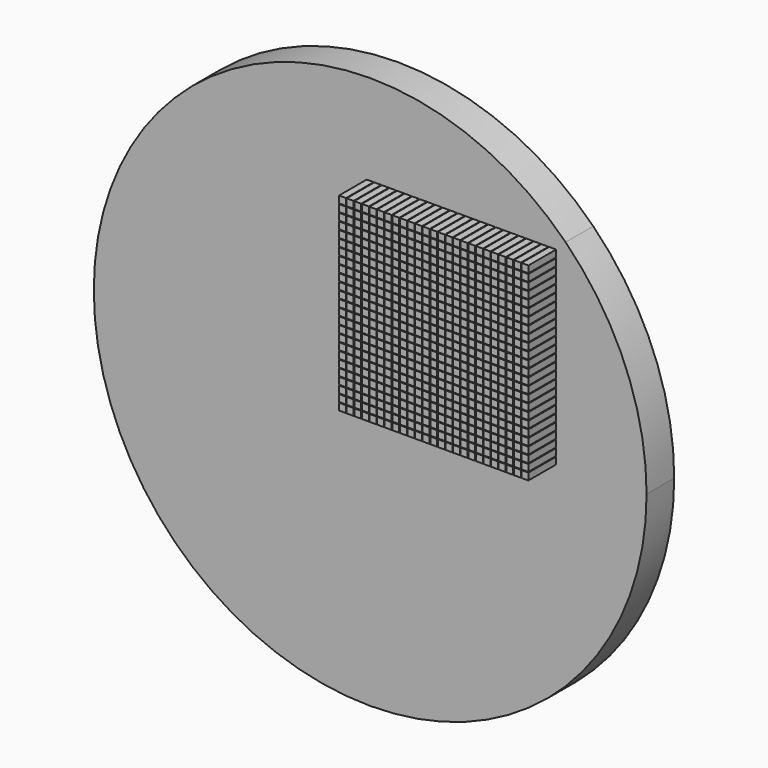
from build123d import *

# Parameters (mm, degrees)
F0_W     = 282.842712
F0_H     = 282.842712
F1_DEPTH = 25
F2_W     = 5
F2_H     = 5
F3_DEPTH = 25


with BuildPart() as f1:
    # F0 (on Front) → F1 (new body)
    with BuildSketch(Plane.XZ):
        with BuildLine():
            Line((-141.421356, 141.421356), (141.421356, 141.421356))
            ThreePointArc((141.421356, 141.421356), (0, 200), (-141.421356, 141.421356))
        make_face()
        with BuildLine():
            Line((-141.421356, -141.421356), (-141.421356, 141.421356))
            ThreePointArc((-141.421356, 141.421356), (-200, 0), (-141.421356, -141.421356))
        make_face()
        with BuildLine():
            ThreePointArc((141.421356, -141.421356), (184.775907, -76.536686), (200, 0))
            ThreePointArc((200, 0), (184.775907, 76.536686), (141.421356, 141.421356))
            Line((141.421356, 141.421356), (141.421356, -141.421356))
        make_face()
        with BuildLine():
            ThreePointArc((-141.421356, -141.421356), (0, -200), (141.421356, -141.421356))
            Line((141.421356, -141.421356), (-141.421356, -141.421356))
        make_face()
        Rectangle(F0_W, F0_H)
    extrude(amount=F1_DEPTH)

    # F2 (on face) → F3 (join)
    with BuildSketch(Plane.XZ.offset(25)):
        Rectangle(F2_W, F2_H)
        with Locations((0, 5.5)):
            Rectangle(F2_W, F2_H)
        with Locations((0, 11)):
            Rectangle(F2_W, F2_H)
        with Locations((0, 16.5)):
            Rectangle(F2_W, F2_H)
        with Locations((0, 22)):
            Rectangle(F2_W, F2_H)
        with Locations((0, 27.5)):
            Rectangle(F2_W, F2_H)
        with Locations((0, 33)):
            Rectangle(F2_W, F2_H)
        with Locations((0, 38.5)):
            Rectangle(F2_W, F2_H)
        with Locations((0, 44)):
            Rectangle(F2_W, F2_H)
        with Locations((0, 49.5)):
            Rectangle(F2_W, F2_H)
        with Locations((0, 55)):
            Rectangle(F2_W, F2_H)
        with Locations((0, 60.5)):
            Rectangle(F2_W, F2_H)
        with Locations((0, 66)):
            Rectangle(F2_W, F2_H)
        with Locations((0, 71.5)):
            Rectangle(F2_W, F2_H)
        with Locations((0, 77)):
            Rectangle(F2_W, F2_H)
        with Locations((0, 82.5)):
            Rectangle(F2_W, F2_H)
        with Locations((0, 88)):
            Rectangle(F2_W, F2_H)
        with Locations((0, 93.5)):
            Rectangle(F2_W, F2_H)
        with Locations((0, 99)):
            Rectangle(F2_W, F2_H)
        with Locations((0, 104.5)):
            Rectangle(F2_W, F2_H)
        with Locations((0, 110)):
            Rectangle(F2_W, F2_H)
        with Locations((0, 115.5)):
            Rectangle(F2_W, F2_H)
        with Locations((0, 121)):
            Rectangle(F2_W, F2_H)
        with Locations((0, 126.5)):
            Rectangle(F2_W, F2_H)
        with Locations((0, 132)):
            Rectangle(F2_W, F2_H)
        with Locations((5.5, 0)):
            Rectangle(F2_W, F2_H)
        with Locations((5.5, 5.5)):
            Rectangle(F2_W, F2_H)
        with Locations((5.5, 11)):
            Rectangle(F2_W, F2_H)
        with Locations((5.5, 16.5)):
            Rectangle(F2_W, F2_H)
        with Locations((5.5, 22)):
            Rectangle(F2_W, F2_H)
        with Locations((5.5, 27.5)):
            Rectangle(F2_W, F2_H)
        with Locations((5.5, 33)):
            Rectangle(F2_W, F2_H)
        with Locations((5.5, 38.5)):
            Rectangle(F2_W, F2_H)
        with Locations((5.5, 44)):
            Rectangle(F2_W, F2_H)
        with Locations((5.5, 49.5)):
            Rectangle(F2_W, F2_H)
        with Locations((5.5, 55)):
            Rectangle(F2_W, F2_H)
        with Locations((5.5, 60.5)):
            Rectangle(F2_W, F2_H)
        with Locations((5.5, 66)):
            Rectangle(F2_W, F2_H)
        with Locations((5.5, 71.5)):
            Rectangle(F2_W, F2_H)
        with Locations((5.5, 77)):
            Rectangle(F2_W, F2_H)
        with Locations((5.5, 82.5)):
            Rectangle(F2_W, F2_H)
        with Locations((5.5, 88)):
            Rectangle(F2_W, F2_H)
        with Locations((5.5, 93.5)):
            Rectangle(F2_W, F2_H)
        with Locations((5.5, 99)):
            Rectangle(F2_W, F2_H)
        with Locations((5.5, 104.5)):
            Rectangle(F2_W, F2_H)
        with Locations((5.5, 110)):
            Rectangle(F2_W, F2_H)
        with Locations((5.5, 115.5)):
            Rectangle(F2_W, F2_H)
        with Locations((5.5, 121)):
            Rectangle(F2_W, F2_H)
        with Locations((5.5, 126.5)):
            Rectangle(F2_W, F2_H)
        with Locations((5.5, 132)):
            Rectangle(F2_W, F2_H)
        with Locations((11, 0)):
            Rectangle(F2_W, F2_H)
        with Locations((11, 5.5)):
            Rectangle(F2_W, F2_H)
        with Locations((11, 11)):
            Rectangle(F2_W, F2_H)
        with Locations((11, 16.5)):
            Rectangle(F2_W, F2_H)
        with Locations((11, 22)):
            Rectangle(F2_W, F2_H)
        with Locations((11, 27.5)):
            Rectangle(F2_W, F2_H)
        with Locations((11, 33)):
            Rectangle(F2_W, F2_H)
        with Locations((11, 38.5)):
            Rectangle(F2_W, F2_H)
        with Locations((11, 44)):
            Rectangle(F2_W, F2_H)
        with Locations((11, 49.5)):
            Rectangle(F2_W, F2_H)
        with Locations((11, 55)):
            Rectangle(F2_W, F2_H)
        with Locations((11, 60.5)):
            Rectangle(F2_W, F2_H)
        with Locations((11, 66)):
            Rectangle(F2_W, F2_H)
        with Locations((11, 71.5)):
            Rectangle(F2_W, F2_H)
        with Locations((11, 77)):
            Rectangle(F2_W, F2_H)
        with Locations((11, 82.5)):
            Rectangle(F2_W, F2_H)
        with Locations((11, 88)):
            Rectangle(F2_W, F2_H)
        with Locations((11, 93.5)):
            Rectangle(F2_W, F2_H)
        with Locations((11, 99)):
            Rectangle(F2_W, F2_H)
        with Locations((11, 104.5)):
            Rectangle(F2_W, F2_H)
        with Locations((11, 110)):
            Rectangle(F2_W, F2_H)
        with Locations((11, 115.5)):
            Rectangle(F2_W, F2_H)
        with Locations((11, 121)):
            Rectangle(F2_W, F2_H)
        with Locations((11, 126.5)):
            Rectangle(F2_W, F2_H)
        with Locations((11, 132)):
            Rectangle(F2_W, F2_H)
        with Locations((16.5, 0)):
            Rectangle(F2_W, F2_H)
        with Locations((16.5, 5.5)):
            Rectangle(F2_W, F2_H)
        with Locations((16.5, 11)):
            Rectangle(F2_W, F2_H)
        with Locations((16.5, 16.5)):
            Rectangle(F2_W, F2_H)
        with Locations((16.5, 22)):
            Rectangle(F2_W, F2_H)
        with Locations((16.5, 27.5)):
            Rectangle(F2_W, F2_H)
        with Locations((16.5, 33)):
            Rectangle(F2_W, F2_H)
        with Locations((16.5, 38.5)):
            Rectangle(F2_W, F2_H)
        with Locations((16.5, 44)):
            Rectangle(F2_W, F2_H)
        with Locations((16.5, 49.5)):
            Rectangle(F2_W, F2_H)
        with Locations((16.5, 55)):
            Rectangle(F2_W, F2_H)
        with Locations((16.5, 60.5)):
            Rectangle(F2_W, F2_H)
        with Locations((16.5, 66)):
            Rectangle(F2_W, F2_H)
        with Locations((16.5, 71.5)):
            Rectangle(F2_W, F2_H)
        with Locations((16.5, 77)):
            Rectangle(F2_W, F2_H)
        with Locations((16.5, 82.5)):
            Rectangle(F2_W, F2_H)
        with Locations((16.5, 88)):
            Rectangle(F2_W, F2_H)
        with Locations((16.5, 93.5)):
            Rectangle(F2_W, F2_H)
        with Locations((16.5, 99)):
            Rectangle(F2_W, F2_H)
        with Locations((16.5, 104.5)):
            Rectangle(F2_W, F2_H)
        with Locations((16.5, 110)):
            Rectangle(F2_W, F2_H)
        with Locations((16.5, 115.5)):
            Rectangle(F2_W, F2_H)
        with Locations((16.5, 121)):
            Rectangle(F2_W, F2_H)
        with Locations((16.5, 126.5)):
            Rectangle(F2_W, F2_H)
        with Locations((16.5, 132)):
            Rectangle(F2_W, F2_H)
        with Locations((22, 0)):
            Rectangle(F2_W, F2_H)
        with Locations((22, 5.5)):
            Rectangle(F2_W, F2_H)
        with Locations((22, 11)):
            Rectangle(F2_W, F2_H)
        with Locations((22, 16.5)):
            Rectangle(F2_W, F2_H)
        with Locations((22, 22)):
            Rectangle(F2_W, F2_H)
        with Locations((22, 27.5)):
            Rectangle(F2_W, F2_H)
        with Locations((22, 33)):
            Rectangle(F2_W, F2_H)
        with Locations((22, 38.5)):
            Rectangle(F2_W, F2_H)
        with Locations((22, 44)):
            Rectangle(F2_W, F2_H)
        with Locations((22, 49.5)):
            Rectangle(F2_W, F2_H)
        with Locations((22, 55)):
            Rectangle(F2_W, F2_H)
        with Locations((22, 60.5)):
            Rectangle(F2_W, F2_H)
        with Locations((22, 66)):
            Rectangle(F2_W, F2_H)
        with Locations((22, 71.5)):
            Rectangle(F2_W, F2_H)
        with Locations((22, 77)):
            Rectangle(F2_W, F2_H)
        with Locations((22, 82.5)):
            Rectangle(F2_W, F2_H)
        with Locations((22, 88)):
            Rectangle(F2_W, F2_H)
        with Locations((22, 93.5)):
            Rectangle(F2_W, F2_H)
        with Locations((22, 99)):
            Rectangle(F2_W, F2_H)
        with Locations((22, 104.5)):
            Rectangle(F2_W, F2_H)
        with Locations((22, 110)):
            Rectangle(F2_W, F2_H)
        with Locations((22, 115.5)):
            Rectangle(F2_W, F2_H)
        with Locations((22, 121)):
            Rectangle(F2_W, F2_H)
        with Locations((22, 126.5)):
            Rectangle(F2_W, F2_H)
        with Locations((22, 132)):
            Rectangle(F2_W, F2_H)
        with Locations((27.5, 0)):
            Rectangle(F2_W, F2_H)
        with Locations((27.5, 5.5)):
            Rectangle(F2_W, F2_H)
        with Locations((27.5, 11)):
            Rectangle(F2_W, F2_H)
        with Locations((27.5, 16.5)):
            Rectangle(F2_W, F2_H)
        with Locations((27.5, 22)):
            Rectangle(F2_W, F2_H)
        with Locations((27.5, 27.5)):
            Rectangle(F2_W, F2_H)
        with Locations((27.5, 33)):
            Rectangle(F2_W, F2_H)
        with Locations((27.5, 38.5)):
            Rectangle(F2_W, F2_H)
        with Locations((27.5, 44)):
            Rectangle(F2_W, F2_H)
        with Locations((27.5, 49.5)):
            Rectangle(F2_W, F2_H)
        with Locations((27.5, 55)):
            Rectangle(F2_W, F2_H)
        with Locations((27.5, 60.5)):
            Rectangle(F2_W, F2_H)
        with Locations((27.5, 66)):
            Rectangle(F2_W, F2_H)
        with Locations((27.5, 71.5)):
            Rectangle(F2_W, F2_H)
        with Locations((27.5, 77)):
            Rectangle(F2_W, F2_H)
        with Locations((27.5, 82.5)):
            Rectangle(F2_W, F2_H)
        with Locations((27.5, 88)):
            Rectangle(F2_W, F2_H)
        with Locations((27.5, 93.5)):
            Rectangle(F2_W, F2_H)
        with Locations((27.5, 99)):
            Rectangle(F2_W, F2_H)
        with Locations((27.5, 104.5)):
            Rectangle(F2_W, F2_H)
        with Locations((27.5, 110)):
            Rectangle(F2_W, F2_H)
        with Locations((27.5, 115.5)):
            Rectangle(F2_W, F2_H)
        with Locations((27.5, 121)):
            Rectangle(F2_W, F2_H)
        with Locations((27.5, 126.5)):
            Rectangle(F2_W, F2_H)
        with Locations((27.5, 132)):
            Rectangle(F2_W, F2_H)
        with Locations((33, 0)):
            Rectangle(F2_W, F2_H)
        with Locations((33, 5.5)):
            Rectangle(F2_W, F2_H)
        with Locations((33, 11)):
            Rectangle(F2_W, F2_H)
        with Locations((33, 16.5)):
            Rectangle(F2_W, F2_H)
        with Locations((33, 22)):
            Rectangle(F2_W, F2_H)
        with Locations((33, 27.5)):
            Rectangle(F2_W, F2_H)
        with Locations((33, 33)):
            Rectangle(F2_W, F2_H)
        with Locations((33, 38.5)):
            Rectangle(F2_W, F2_H)
        with Locations((33, 44)):
            Rectangle(F2_W, F2_H)
        with Locations((33, 49.5)):
            Rectangle(F2_W, F2_H)
        with Locations((33, 55)):
            Rectangle(F2_W, F2_H)
        with Locations((33, 60.5)):
            Rectangle(F2_W, F2_H)
        with Locations((33, 66)):
            Rectangle(F2_W, F2_H)
        with Locations((33, 71.5)):
            Rectangle(F2_W, F2_H)
        with Locations((33, 77)):
            Rectangle(F2_W, F2_H)
        with Locations((33, 82.5)):
            Rectangle(F2_W, F2_H)
        with Locations((33, 88)):
            Rectangle(F2_W, F2_H)
        with Locations((33, 93.5)):
            Rectangle(F2_W, F2_H)
        with Locations((33, 99)):
            Rectangle(F2_W, F2_H)
        with Locations((33, 104.5)):
            Rectangle(F2_W, F2_H)
        with Locations((33, 110)):
            Rectangle(F2_W, F2_H)
        with Locations((33, 115.5)):
            Rectangle(F2_W, F2_H)
        with Locations((33, 121)):
            Rectangle(F2_W, F2_H)
        with Locations((33, 126.5)):
            Rectangle(F2_W, F2_H)
        with Locations((33, 132)):
            Rectangle(F2_W, F2_H)
        with Locations((38.5, 0)):
            Rectangle(F2_W, F2_H)
        with Locations((38.5, 5.5)):
            Rectangle(F2_W, F2_H)
        with Locations((38.5, 11)):
            Rectangle(F2_W, F2_H)
        with Locations((38.5, 16.5)):
            Rectangle(F2_W, F2_H)
        with Locations((38.5, 22)):
            Rectangle(F2_W, F2_H)
        with Locations((38.5, 27.5)):
            Rectangle(F2_W, F2_H)
        with Locations((38.5, 33)):
            Rectangle(F2_W, F2_H)
        with Locations((38.5, 38.5)):
            Rectangle(F2_W, F2_H)
        with Locations((38.5, 44)):
            Rectangle(F2_W, F2_H)
        with Locations((38.5, 49.5)):
            Rectangle(F2_W, F2_H)
        with Locations((38.5, 55)):
            Rectangle(F2_W, F2_H)
        with Locations((38.5, 60.5)):
            Rectangle(F2_W, F2_H)
        with Locations((38.5, 66)):
            Rectangle(F2_W, F2_H)
        with Locations((38.5, 71.5)):
            Rectangle(F2_W, F2_H)
        with Locations((38.5, 77)):
            Rectangle(F2_W, F2_H)
        with Locations((38.5, 82.5)):
            Rectangle(F2_W, F2_H)
        with Locations((38.5, 88)):
            Rectangle(F2_W, F2_H)
        with Locations((38.5, 93.5)):
            Rectangle(F2_W, F2_H)
        with Locations((38.5, 99)):
            Rectangle(F2_W, F2_H)
        with Locations((38.5, 104.5)):
            Rectangle(F2_W, F2_H)
        with Locations((38.5, 110)):
            Rectangle(F2_W, F2_H)
        with Locations((38.5, 115.5)):
            Rectangle(F2_W, F2_H)
        with Locations((38.5, 121)):
            Rectangle(F2_W, F2_H)
        with Locations((38.5, 126.5)):
            Rectangle(F2_W, F2_H)
        with Locations((38.5, 132)):
            Rectangle(F2_W, F2_H)
        with Locations((44, 0)):
            Rectangle(F2_W, F2_H)
        with Locations((44, 5.5)):
            Rectangle(F2_W, F2_H)
        with Locations((44, 11)):
            Rectangle(F2_W, F2_H)
        with Locations((44, 16.5)):
            Rectangle(F2_W, F2_H)
        with Locations((44, 22)):
            Rectangle(F2_W, F2_H)
        with Locations((44, 27.5)):
            Rectangle(F2_W, F2_H)
        with Locations((44, 33)):
            Rectangle(F2_W, F2_H)
        with Locations((44, 38.5)):
            Rectangle(F2_W, F2_H)
        with Locations((44, 44)):
            Rectangle(F2_W, F2_H)
        with Locations((44, 49.5)):
            Rectangle(F2_W, F2_H)
        with Locations((44, 55)):
            Rectangle(F2_W, F2_H)
        with Locations((44, 60.5)):
            Rectangle(F2_W, F2_H)
        with Locations((44, 66)):
            Rectangle(F2_W, F2_H)
        with Locations((44, 71.5)):
            Rectangle(F2_W, F2_H)
        with Locations((44, 77)):
            Rectangle(F2_W, F2_H)
        with Locations((44, 82.5)):
            Rectangle(F2_W, F2_H)
        with Locations((44, 88)):
            Rectangle(F2_W, F2_H)
        with Locations((44, 93.5)):
            Rectangle(F2_W, F2_H)
        with Locations((44, 99)):
            Rectangle(F2_W, F2_H)
        with Locations((44, 104.5)):
            Rectangle(F2_W, F2_H)
        with Locations((44, 110)):
            Rectangle(F2_W, F2_H)
        with Locations((44, 115.5)):
            Rectangle(F2_W, F2_H)
        with Locations((44, 121)):
            Rectangle(F2_W, F2_H)
        with Locations((44, 126.5)):
            Rectangle(F2_W, F2_H)
        with Locations((44, 132)):
            Rectangle(F2_W, F2_H)
        with Locations((49.5, 0)):
            Rectangle(F2_W, F2_H)
        with Locations((49.5, 5.5)):
            Rectangle(F2_W, F2_H)
        with Locations((49.5, 11)):
            Rectangle(F2_W, F2_H)
        with Locations((49.5, 16.5)):
            Rectangle(F2_W, F2_H)
        with Locations((49.5, 22)):
            Rectangle(F2_W, F2_H)
        with Locations((49.5, 27.5)):
            Rectangle(F2_W, F2_H)
        with Locations((49.5, 33)):
            Rectangle(F2_W, F2_H)
        with Locations((49.5, 38.5)):
            Rectangle(F2_W, F2_H)
        with Locations((49.5, 44)):
            Rectangle(F2_W, F2_H)
        with Locations((49.5, 49.5)):
            Rectangle(F2_W, F2_H)
        with Locations((49.5, 55)):
            Rectangle(F2_W, F2_H)
        with Locations((49.5, 60.5)):
            Rectangle(F2_W, F2_H)
        with Locations((49.5, 66)):
            Rectangle(F2_W, F2_H)
        with Locations((49.5, 71.5)):
            Rectangle(F2_W, F2_H)
        with Locations((49.5, 77)):
            Rectangle(F2_W, F2_H)
        with Locations((49.5, 82.5)):
            Rectangle(F2_W, F2_H)
        with Locations((49.5, 88)):
            Rectangle(F2_W, F2_H)
        with Locations((49.5, 93.5)):
            Rectangle(F2_W, F2_H)
        with Locations((49.5, 99)):
            Rectangle(F2_W, F2_H)
        with Locations((49.5, 104.5)):
            Rectangle(F2_W, F2_H)
        with Locations((49.5, 110)):
            Rectangle(F2_W, F2_H)
        with Locations((49.5, 115.5)):
            Rectangle(F2_W, F2_H)
        with Locations((49.5, 121)):
            Rectangle(F2_W, F2_H)
        with Locations((49.5, 126.5)):
            Rectangle(F2_W, F2_H)
        with Locations((49.5, 132)):
            Rectangle(F2_W, F2_H)
        with Locations((55, 0)):
            Rectangle(F2_W, F2_H)
        with Locations((55, 5.5)):
            Rectangle(F2_W, F2_H)
        with Locations((55, 11)):
            Rectangle(F2_W, F2_H)
        with Locations((55, 16.5)):
            Rectangle(F2_W, F2_H)
        with Locations((55, 22)):
            Rectangle(F2_W, F2_H)
        with Locations((55, 27.5)):
            Rectangle(F2_W, F2_H)
        with Locations((55, 33)):
            Rectangle(F2_W, F2_H)
        with Locations((55, 38.5)):
            Rectangle(F2_W, F2_H)
        with Locations((55, 44)):
            Rectangle(F2_W, F2_H)
        with Locations((55, 49.5)):
            Rectangle(F2_W, F2_H)
        with Locations((55, 55)):
            Rectangle(F2_W, F2_H)
        with Locations((55, 60.5)):
            Rectangle(F2_W, F2_H)
        with Locations((55, 66)):
            Rectangle(F2_W, F2_H)
        with Locations((55, 71.5)):
            Rectangle(F2_W, F2_H)
        with Locations((55, 77)):
            Rectangle(F2_W, F2_H)
        with Locations((55, 82.5)):
            Rectangle(F2_W, F2_H)
        with Locations((55, 88)):
            Rectangle(F2_W, F2_H)
        with Locations((55, 93.5)):
            Rectangle(F2_W, F2_H)
        with Locations((55, 99)):
            Rectangle(F2_W, F2_H)
        with Locations((55, 104.5)):
            Rectangle(F2_W, F2_H)
        with Locations((55, 110)):
            Rectangle(F2_W, F2_H)
        with Locations((55, 115.5)):
            Rectangle(F2_W, F2_H)
        with Locations((55, 121)):
            Rectangle(F2_W, F2_H)
        with Locations((55, 126.5)):
            Rectangle(F2_W, F2_H)
        with Locations((55, 132)):
            Rectangle(F2_W, F2_H)
        with Locations((60.5, 0)):
            Rectangle(F2_W, F2_H)
        with Locations((60.5, 5.5)):
            Rectangle(F2_W, F2_H)
        with Locations((60.5, 11)):
            Rectangle(F2_W, F2_H)
        with Locations((60.5, 16.5)):
            Rectangle(F2_W, F2_H)
        with Locations((60.5, 22)):
            Rectangle(F2_W, F2_H)
        with Locations((60.5, 27.5)):
            Rectangle(F2_W, F2_H)
        with Locations((60.5, 33)):
            Rectangle(F2_W, F2_H)
        with Locations((60.5, 38.5)):
            Rectangle(F2_W, F2_H)
        with Locations((60.5, 44)):
            Rectangle(F2_W, F2_H)
        with Locations((60.5, 49.5)):
            Rectangle(F2_W, F2_H)
        with Locations((60.5, 55)):
            Rectangle(F2_W, F2_H)
        with Locations((60.5, 60.5)):
            Rectangle(F2_W, F2_H)
        with Locations((60.5, 66)):
            Rectangle(F2_W, F2_H)
        with Locations((60.5, 71.5)):
            Rectangle(F2_W, F2_H)
        with Locations((60.5, 77)):
            Rectangle(F2_W, F2_H)
        with Locations((60.5, 82.5)):
            Rectangle(F2_W, F2_H)
        with Locations((60.5, 88)):
            Rectangle(F2_W, F2_H)
        with Locations((60.5, 93.5)):
            Rectangle(F2_W, F2_H)
        with Locations((60.5, 99)):
            Rectangle(F2_W, F2_H)
        with Locations((60.5, 104.5)):
            Rectangle(F2_W, F2_H)
        with Locations((60.5, 110)):
            Rectangle(F2_W, F2_H)
        with Locations((60.5, 115.5)):
            Rectangle(F2_W, F2_H)
        with Locations((60.5, 121)):
            Rectangle(F2_W, F2_H)
        with Locations((60.5, 126.5)):
            Rectangle(F2_W, F2_H)
        with Locations((60.5, 132)):
            Rectangle(F2_W, F2_H)
        with Locations((66, 0)):
            Rectangle(F2_W, F2_H)
        with Locations((66, 5.5)):
            Rectangle(F2_W, F2_H)
        with Locations((66, 11)):
            Rectangle(F2_W, F2_H)
        with Locations((66, 16.5)):
            Rectangle(F2_W, F2_H)
        with Locations((66, 22)):
            Rectangle(F2_W, F2_H)
        with Locations((66, 27.5)):
            Rectangle(F2_W, F2_H)
        with Locations((66, 33)):
            Rectangle(F2_W, F2_H)
        with Locations((66, 38.5)):
            Rectangle(F2_W, F2_H)
        with Locations((66, 44)):
            Rectangle(F2_W, F2_H)
        with Locations((66, 49.5)):
            Rectangle(F2_W, F2_H)
        with Locations((66, 55)):
            Rectangle(F2_W, F2_H)
        with Locations((66, 60.5)):
            Rectangle(F2_W, F2_H)
        with Locations((66, 66)):
            Rectangle(F2_W, F2_H)
        with Locations((66, 71.5)):
            Rectangle(F2_W, F2_H)
        with Locations((66, 77)):
            Rectangle(F2_W, F2_H)
        with Locations((66, 82.5)):
            Rectangle(F2_W, F2_H)
        with Locations((66, 88)):
            Rectangle(F2_W, F2_H)
        with Locations((66, 93.5)):
            Rectangle(F2_W, F2_H)
        with Locations((66, 99)):
            Rectangle(F2_W, F2_H)
        with Locations((66, 104.5)):
            Rectangle(F2_W, F2_H)
        with Locations((66, 110)):
            Rectangle(F2_W, F2_H)
        with Locations((66, 115.5)):
            Rectangle(F2_W, F2_H)
        with Locations((66, 121)):
            Rectangle(F2_W, F2_H)
        with Locations((66, 126.5)):
            Rectangle(F2_W, F2_H)
        with Locations((66, 132)):
            Rectangle(F2_W, F2_H)
        with Locations((71.5, 0)):
            Rectangle(F2_W, F2_H)
        with Locations((71.5, 5.5)):
            Rectangle(F2_W, F2_H)
        with Locations((71.5, 11)):
            Rectangle(F2_W, F2_H)
        with Locations((71.5, 16.5)):
            Rectangle(F2_W, F2_H)
        with Locations((71.5, 22)):
            Rectangle(F2_W, F2_H)
        with Locations((71.5, 27.5)):
            Rectangle(F2_W, F2_H)
        with Locations((71.5, 33)):
            Rectangle(F2_W, F2_H)
        with Locations((71.5, 38.5)):
            Rectangle(F2_W, F2_H)
        with Locations((71.5, 44)):
            Rectangle(F2_W, F2_H)
        with Locations((71.5, 49.5)):
            Rectangle(F2_W, F2_H)
        with Locations((71.5, 55)):
            Rectangle(F2_W, F2_H)
        with Locations((71.5, 60.5)):
            Rectangle(F2_W, F2_H)
        with Locations((71.5, 66)):
            Rectangle(F2_W, F2_H)
        with Locations((71.5, 71.5)):
            Rectangle(F2_W, F2_H)
        with Locations((71.5, 77)):
            Rectangle(F2_W, F2_H)
        with Locations((71.5, 82.5)):
            Rectangle(F2_W, F2_H)
        with Locations((71.5, 88)):
            Rectangle(F2_W, F2_H)
        with Locations((71.5, 93.5)):
            Rectangle(F2_W, F2_H)
        with Locations((71.5, 99)):
            Rectangle(F2_W, F2_H)
        with Locations((71.5, 104.5)):
            Rectangle(F2_W, F2_H)
        with Locations((71.5, 110)):
            Rectangle(F2_W, F2_H)
        with Locations((71.5, 115.5)):
            Rectangle(F2_W, F2_H)
        with Locations((71.5, 121)):
            Rectangle(F2_W, F2_H)
        with Locations((71.5, 126.5)):
            Rectangle(F2_W, F2_H)
        with Locations((71.5, 132)):
            Rectangle(F2_W, F2_H)
        with Locations((77, 0)):
            Rectangle(F2_W, F2_H)
        with Locations((77, 5.5)):
            Rectangle(F2_W, F2_H)
        with Locations((77, 11)):
            Rectangle(F2_W, F2_H)
        with Locations((77, 16.5)):
            Rectangle(F2_W, F2_H)
        with Locations((77, 22)):
            Rectangle(F2_W, F2_H)
        with Locations((77, 27.5)):
            Rectangle(F2_W, F2_H)
        with Locations((77, 33)):
            Rectangle(F2_W, F2_H)
        with Locations((77, 38.5)):
            Rectangle(F2_W, F2_H)
        with Locations((77, 44)):
            Rectangle(F2_W, F2_H)
        with Locations((77, 49.5)):
            Rectangle(F2_W, F2_H)
        with Locations((77, 55)):
            Rectangle(F2_W, F2_H)
        with Locations((77, 60.5)):
            Rectangle(F2_W, F2_H)
        with Locations((77, 66)):
            Rectangle(F2_W, F2_H)
        with Locations((77, 71.5)):
            Rectangle(F2_W, F2_H)
        with Locations((77, 77)):
            Rectangle(F2_W, F2_H)
        with Locations((77, 82.5)):
            Rectangle(F2_W, F2_H)
        with Locations((77, 88)):
            Rectangle(F2_W, F2_H)
        with Locations((77, 93.5)):
            Rectangle(F2_W, F2_H)
        with Locations((77, 99)):
            Rectangle(F2_W, F2_H)
        with Locations((77, 104.5)):
            Rectangle(F2_W, F2_H)
        with Locations((77, 110)):
            Rectangle(F2_W, F2_H)
        with Locations((77, 115.5)):
            Rectangle(F2_W, F2_H)
        with Locations((77, 121)):
            Rectangle(F2_W, F2_H)
        with Locations((77, 126.5)):
            Rectangle(F2_W, F2_H)
        with Locations((77, 132)):
            Rectangle(F2_W, F2_H)
        with Locations((82.5, 0)):
            Rectangle(F2_W, F2_H)
        with Locations((82.5, 5.5)):
            Rectangle(F2_W, F2_H)
        with Locations((82.5, 11)):
            Rectangle(F2_W, F2_H)
        with Locations((82.5, 16.5)):
            Rectangle(F2_W, F2_H)
        with Locations((82.5, 22)):
            Rectangle(F2_W, F2_H)
        with Locations((82.5, 27.5)):
            Rectangle(F2_W, F2_H)
        with Locations((82.5, 33)):
            Rectangle(F2_W, F2_H)
        with Locations((82.5, 38.5)):
            Rectangle(F2_W, F2_H)
        with Locations((82.5, 44)):
            Rectangle(F2_W, F2_H)
        with Locations((82.5, 49.5)):
            Rectangle(F2_W, F2_H)
        with Locations((82.5, 55)):
            Rectangle(F2_W, F2_H)
        with Locations((82.5, 60.5)):
            Rectangle(F2_W, F2_H)
        with Locations((82.5, 66)):
            Rectangle(F2_W, F2_H)
        with Locations((82.5, 71.5)):
            Rectangle(F2_W, F2_H)
        with Locations((82.5, 77)):
            Rectangle(F2_W, F2_H)
        with Locations((82.5, 82.5)):
            Rectangle(F2_W, F2_H)
        with Locations((82.5, 88)):
            Rectangle(F2_W, F2_H)
        with Locations((82.5, 93.5)):
            Rectangle(F2_W, F2_H)
        with Locations((82.5, 99)):
            Rectangle(F2_W, F2_H)
        with Locations((82.5, 104.5)):
            Rectangle(F2_W, F2_H)
        with Locations((82.5, 110)):
            Rectangle(F2_W, F2_H)
        with Locations((82.5, 115.5)):
            Rectangle(F2_W, F2_H)
        with Locations((82.5, 121)):
            Rectangle(F2_W, F2_H)
        with Locations((82.5, 126.5)):
            Rectangle(F2_W, F2_H)
        with Locations((82.5, 132)):
            Rectangle(F2_W, F2_H)
        with Locations((88, 0)):
            Rectangle(F2_W, F2_H)
        with Locations((88, 5.5)):
            Rectangle(F2_W, F2_H)
        with Locations((88, 11)):
            Rectangle(F2_W, F2_H)
        with Locations((88, 16.5)):
            Rectangle(F2_W, F2_H)
        with Locations((88, 22)):
            Rectangle(F2_W, F2_H)
        with Locations((88, 27.5)):
            Rectangle(F2_W, F2_H)
        with Locations((88, 33)):
            Rectangle(F2_W, F2_H)
        with Locations((88, 38.5)):
            Rectangle(F2_W, F2_H)
        with Locations((88, 44)):
            Rectangle(F2_W, F2_H)
        with Locations((88, 49.5)):
            Rectangle(F2_W, F2_H)
        with Locations((88, 55)):
            Rectangle(F2_W, F2_H)
        with Locations((88, 60.5)):
            Rectangle(F2_W, F2_H)
        with Locations((88, 66)):
            Rectangle(F2_W, F2_H)
        with Locations((88, 71.5)):
            Rectangle(F2_W, F2_H)
        with Locations((88, 77)):
            Rectangle(F2_W, F2_H)
        with Locations((88, 82.5)):
            Rectangle(F2_W, F2_H)
        with Locations((88, 88)):
            Rectangle(F2_W, F2_H)
        with Locations((88, 93.5)):
            Rectangle(F2_W, F2_H)
        with Locations((88, 99)):
            Rectangle(F2_W, F2_H)
        with Locations((88, 104.5)):
            Rectangle(F2_W, F2_H)
        with Locations((88, 110)):
            Rectangle(F2_W, F2_H)
        with Locations((88, 115.5)):
            Rectangle(F2_W, F2_H)
        with Locations((88, 121)):
            Rectangle(F2_W, F2_H)
        with Locations((88, 126.5)):
            Rectangle(F2_W, F2_H)
        with Locations((88, 132)):
            Rectangle(F2_W, F2_H)
        with Locations((93.5, 0)):
            Rectangle(F2_W, F2_H)
        with Locations((93.5, 5.5)):
            Rectangle(F2_W, F2_H)
        with Locations((93.5, 11)):
            Rectangle(F2_W, F2_H)
        with Locations((93.5, 16.5)):
            Rectangle(F2_W, F2_H)
        with Locations((93.5, 22)):
            Rectangle(F2_W, F2_H)
        with Locations((93.5, 27.5)):
            Rectangle(F2_W, F2_H)
        with Locations((93.5, 33)):
            Rectangle(F2_W, F2_H)
        with Locations((93.5, 38.5)):
            Rectangle(F2_W, F2_H)
        with Locations((93.5, 44)):
            Rectangle(F2_W, F2_H)
        with Locations((93.5, 49.5)):
            Rectangle(F2_W, F2_H)
        with Locations((93.5, 55)):
            Rectangle(F2_W, F2_H)
        with Locations((93.5, 60.5)):
            Rectangle(F2_W, F2_H)
        with Locations((93.5, 66)):
            Rectangle(F2_W, F2_H)
        with Locations((93.5, 71.5)):
            Rectangle(F2_W, F2_H)
        with Locations((93.5, 77)):
            Rectangle(F2_W, F2_H)
        with Locations((93.5, 82.5)):
            Rectangle(F2_W, F2_H)
        with Locations((93.5, 88)):
            Rectangle(F2_W, F2_H)
        with Locations((93.5, 93.5)):
            Rectangle(F2_W, F2_H)
        with Locations((93.5, 99)):
            Rectangle(F2_W, F2_H)
        with Locations((93.5, 104.5)):
            Rectangle(F2_W, F2_H)
        with Locations((93.5, 110)):
            Rectangle(F2_W, F2_H)
        with Locations((93.5, 115.5)):
            Rectangle(F2_W, F2_H)
        with Locations((93.5, 121)):
            Rectangle(F2_W, F2_H)
        with Locations((93.5, 126.5)):
            Rectangle(F2_W, F2_H)
        with Locations((93.5, 132)):
            Rectangle(F2_W, F2_H)
        with Locations((99, 0)):
            Rectangle(F2_W, F2_H)
        with Locations((99, 5.5)):
            Rectangle(F2_W, F2_H)
        with Locations((99, 11)):
            Rectangle(F2_W, F2_H)
        with Locations((99, 16.5)):
            Rectangle(F2_W, F2_H)
        with Locations((99, 22)):
            Rectangle(F2_W, F2_H)
        with Locations((99, 27.5)):
            Rectangle(F2_W, F2_H)
        with Locations((99, 33)):
            Rectangle(F2_W, F2_H)
        with Locations((99, 38.5)):
            Rectangle(F2_W, F2_H)
        with Locations((99, 44)):
            Rectangle(F2_W, F2_H)
        with Locations((99, 49.5)):
            Rectangle(F2_W, F2_H)
        with Locations((99, 55)):
            Rectangle(F2_W, F2_H)
        with Locations((99, 60.5)):
            Rectangle(F2_W, F2_H)
        with Locations((99, 66)):
            Rectangle(F2_W, F2_H)
        with Locations((99, 71.5)):
            Rectangle(F2_W, F2_H)
        with Locations((99, 77)):
            Rectangle(F2_W, F2_H)
        with Locations((99, 82.5)):
            Rectangle(F2_W, F2_H)
        with Locations((99, 88)):
            Rectangle(F2_W, F2_H)
        with Locations((99, 93.5)):
            Rectangle(F2_W, F2_H)
        with Locations((99, 99)):
            Rectangle(F2_W, F2_H)
        with Locations((99, 104.5)):
            Rectangle(F2_W, F2_H)
        with Locations((99, 110)):
            Rectangle(F2_W, F2_H)
        with Locations((99, 115.5)):
            Rectangle(F2_W, F2_H)
        with Locations((99, 121)):
            Rectangle(F2_W, F2_H)
        with Locations((99, 126.5)):
            Rectangle(F2_W, F2_H)
        with Locations((99, 132)):
            Rectangle(F2_W, F2_H)
        with Locations((104.5, 0)):
            Rectangle(F2_W, F2_H)
        with Locations((104.5, 5.5)):
            Rectangle(F2_W, F2_H)
        with Locations((104.5, 11)):
            Rectangle(F2_W, F2_H)
        with Locations((104.5, 16.5)):
            Rectangle(F2_W, F2_H)
        with Locations((104.5, 22)):
            Rectangle(F2_W, F2_H)
        with Locations((104.5, 27.5)):
            Rectangle(F2_W, F2_H)
        with Locations((104.5, 33)):
            Rectangle(F2_W, F2_H)
        with Locations((104.5, 38.5)):
            Rectangle(F2_W, F2_H)
        with Locations((104.5, 44)):
            Rectangle(F2_W, F2_H)
        with Locations((104.5, 49.5)):
            Rectangle(F2_W, F2_H)
        with Locations((104.5, 55)):
            Rectangle(F2_W, F2_H)
        with Locations((104.5, 60.5)):
            Rectangle(F2_W, F2_H)
        with Locations((104.5, 66)):
            Rectangle(F2_W, F2_H)
        with Locations((104.5, 71.5)):
            Rectangle(F2_W, F2_H)
        with Locations((104.5, 77)):
            Rectangle(F2_W, F2_H)
        with Locations((104.5, 82.5)):
            Rectangle(F2_W, F2_H)
        with Locations((104.5, 88)):
            Rectangle(F2_W, F2_H)
        with Locations((104.5, 93.5)):
            Rectangle(F2_W, F2_H)
        with Locations((104.5, 99)):
            Rectangle(F2_W, F2_H)
        with Locations((104.5, 104.5)):
            Rectangle(F2_W, F2_H)
        with Locations((104.5, 110)):
            Rectangle(F2_W, F2_H)
        with Locations((104.5, 115.5)):
            Rectangle(F2_W, F2_H)
        with Locations((104.5, 121)):
            Rectangle(F2_W, F2_H)
        with Locations((104.5, 126.5)):
            Rectangle(F2_W, F2_H)
        with Locations((104.5, 132)):
            Rectangle(F2_W, F2_H)
        with Locations((110, 0)):
            Rectangle(F2_W, F2_H)
        with Locations((110, 5.5)):
            Rectangle(F2_W, F2_H)
        with Locations((110, 11)):
            Rectangle(F2_W, F2_H)
        with Locations((110, 16.5)):
            Rectangle(F2_W, F2_H)
        with Locations((110, 22)):
            Rectangle(F2_W, F2_H)
        with Locations((110, 27.5)):
            Rectangle(F2_W, F2_H)
        with Locations((110, 33)):
            Rectangle(F2_W, F2_H)
        with Locations((110, 38.5)):
            Rectangle(F2_W, F2_H)
        with Locations((110, 44)):
            Rectangle(F2_W, F2_H)
        with Locations((110, 49.5)):
            Rectangle(F2_W, F2_H)
        with Locations((110, 55)):
            Rectangle(F2_W, F2_H)
        with Locations((110, 60.5)):
            Rectangle(F2_W, F2_H)
        with Locations((110, 66)):
            Rectangle(F2_W, F2_H)
        with Locations((110, 71.5)):
            Rectangle(F2_W, F2_H)
        with Locations((110, 77)):
            Rectangle(F2_W, F2_H)
        with Locations((110, 82.5)):
            Rectangle(F2_W, F2_H)
        with Locations((110, 88)):
            Rectangle(F2_W, F2_H)
        with Locations((110, 93.5)):
            Rectangle(F2_W, F2_H)
        with Locations((110, 99)):
            Rectangle(F2_W, F2_H)
        with Locations((110, 104.5)):
            Rectangle(F2_W, F2_H)
        with Locations((110, 110)):
            Rectangle(F2_W, F2_H)
        with Locations((110, 115.5)):
            Rectangle(F2_W, F2_H)
        with Locations((110, 121)):
            Rectangle(F2_W, F2_H)
        with Locations((110, 126.5)):
            Rectangle(F2_W, F2_H)
        with Locations((110, 132)):
            Rectangle(F2_W, F2_H)
        with Locations((115.5, 0)):
            Rectangle(F2_W, F2_H)
        with Locations((115.5, 5.5)):
            Rectangle(F2_W, F2_H)
        with Locations((115.5, 11)):
            Rectangle(F2_W, F2_H)
        with Locations((115.5, 16.5)):
            Rectangle(F2_W, F2_H)
        with Locations((115.5, 22)):
            Rectangle(F2_W, F2_H)
        with Locations((115.5, 27.5)):
            Rectangle(F2_W, F2_H)
        with Locations((115.5, 33)):
            Rectangle(F2_W, F2_H)
        with Locations((115.5, 38.5)):
            Rectangle(F2_W, F2_H)
        with Locations((115.5, 44)):
            Rectangle(F2_W, F2_H)
        with Locations((115.5, 49.5)):
            Rectangle(F2_W, F2_H)
        with Locations((115.5, 55)):
            Rectangle(F2_W, F2_H)
        with Locations((115.5, 60.5)):
            Rectangle(F2_W, F2_H)
        with Locations((115.5, 66)):
            Rectangle(F2_W, F2_H)
        with Locations((115.5, 71.5)):
            Rectangle(F2_W, F2_H)
        with Locations((115.5, 77)):
            Rectangle(F2_W, F2_H)
        with Locations((115.5, 82.5)):
            Rectangle(F2_W, F2_H)
        with Locations((115.5, 88)):
            Rectangle(F2_W, F2_H)
        with Locations((115.5, 93.5)):
            Rectangle(F2_W, F2_H)
        with Locations((115.5, 99)):
            Rectangle(F2_W, F2_H)
        with Locations((115.5, 104.5)):
            Rectangle(F2_W, F2_H)
        with Locations((115.5, 110)):
            Rectangle(F2_W, F2_H)
        with Locations((115.5, 115.5)):
            Rectangle(F2_W, F2_H)
        with Locations((115.5, 121)):
            Rectangle(F2_W, F2_H)
        with Locations((115.5, 126.5)):
            Rectangle(F2_W, F2_H)
        with Locations((115.5, 132)):
            Rectangle(F2_W, F2_H)
        with Locations((121, 0)):
            Rectangle(F2_W, F2_H)
        with Locations((121, 5.5)):
            Rectangle(F2_W, F2_H)
        with Locations((121, 11)):
            Rectangle(F2_W, F2_H)
        with Locations((121, 16.5)):
            Rectangle(F2_W, F2_H)
        with Locations((121, 22)):
            Rectangle(F2_W, F2_H)
        with Locations((121, 27.5)):
            Rectangle(F2_W, F2_H)
        with Locations((121, 33)):
            Rectangle(F2_W, F2_H)
        with Locations((121, 38.5)):
            Rectangle(F2_W, F2_H)
        with Locations((121, 44)):
            Rectangle(F2_W, F2_H)
        with Locations((121, 49.5)):
            Rectangle(F2_W, F2_H)
        with Locations((121, 55)):
            Rectangle(F2_W, F2_H)
        with Locations((121, 60.5)):
            Rectangle(F2_W, F2_H)
        with Locations((121, 66)):
            Rectangle(F2_W, F2_H)
        with Locations((121, 71.5)):
            Rectangle(F2_W, F2_H)
        with Locations((121, 77)):
            Rectangle(F2_W, F2_H)
        with Locations((121, 82.5)):
            Rectangle(F2_W, F2_H)
        with Locations((121, 88)):
            Rectangle(F2_W, F2_H)
        with Locations((121, 93.5)):
            Rectangle(F2_W, F2_H)
        with Locations((121, 99)):
            Rectangle(F2_W, F2_H)
        with Locations((121, 104.5)):
            Rectangle(F2_W, F2_H)
        with Locations((121, 110)):
            Rectangle(F2_W, F2_H)
        with Locations((121, 115.5)):
            Rectangle(F2_W, F2_H)
        with Locations((121, 121)):
            Rectangle(F2_W, F2_H)
        with Locations((121, 126.5)):
            Rectangle(F2_W, F2_H)
        with Locations((121, 132)):
            Rectangle(F2_W, F2_H)
        with Locations((126.5, 0)):
            Rectangle(F2_W, F2_H)
        with Locations((126.5, 5.5)):
            Rectangle(F2_W, F2_H)
        with Locations((126.5, 11)):
            Rectangle(F2_W, F2_H)
        with Locations((126.5, 16.5)):
            Rectangle(F2_W, F2_H)
        with Locations((126.5, 22)):
            Rectangle(F2_W, F2_H)
        with Locations((126.5, 27.5)):
            Rectangle(F2_W, F2_H)
        with Locations((126.5, 33)):
            Rectangle(F2_W, F2_H)
        with Locations((126.5, 38.5)):
            Rectangle(F2_W, F2_H)
        with Locations((126.5, 44)):
            Rectangle(F2_W, F2_H)
        with Locations((126.5, 49.5)):
            Rectangle(F2_W, F2_H)
        with Locations((126.5, 55)):
            Rectangle(F2_W, F2_H)
        with Locations((126.5, 60.5)):
            Rectangle(F2_W, F2_H)
        with Locations((126.5, 66)):
            Rectangle(F2_W, F2_H)
        with Locations((126.5, 71.5)):
            Rectangle(F2_W, F2_H)
        with Locations((126.5, 77)):
            Rectangle(F2_W, F2_H)
        with Locations((126.5, 82.5)):
            Rectangle(F2_W, F2_H)
        with Locations((126.5, 88)):
            Rectangle(F2_W, F2_H)
        with Locations((126.5, 93.5)):
            Rectangle(F2_W, F2_H)
        with Locations((126.5, 99)):
            Rectangle(F2_W, F2_H)
        with Locations((126.5, 104.5)):
            Rectangle(F2_W, F2_H)
        with Locations((126.5, 110)):
            Rectangle(F2_W, F2_H)
        with Locations((126.5, 115.5)):
            Rectangle(F2_W, F2_H)
        with Locations((126.5, 121)):
            Rectangle(F2_W, F2_H)
        with Locations((126.5, 126.5)):
            Rectangle(F2_W, F2_H)
        with Locations((126.5, 132)):
            Rectangle(F2_W, F2_H)
        with Locations((132, 0)):
            Rectangle(F2_W, F2_H)
        with Locations((132, 5.5)):
            Rectangle(F2_W, F2_H)
        with Locations((132, 11)):
            Rectangle(F2_W, F2_H)
        with Locations((132, 16.5)):
            Rectangle(F2_W, F2_H)
        with Locations((132, 22)):
            Rectangle(F2_W, F2_H)
        with Locations((132, 27.5)):
            Rectangle(F2_W, F2_H)
        with Locations((132, 33)):
            Rectangle(F2_W, F2_H)
        with Locations((132, 38.5)):
            Rectangle(F2_W, F2_H)
        with Locations((132, 44)):
            Rectangle(F2_W, F2_H)
        with Locations((132, 49.5)):
            Rectangle(F2_W, F2_H)
        with Locations((132, 55)):
            Rectangle(F2_W, F2_H)
        with Locations((132, 60.5)):
            Rectangle(F2_W, F2_H)
        with Locations((132, 66)):
            Rectangle(F2_W, F2_H)
        with Locations((132, 71.5)):
            Rectangle(F2_W, F2_H)
        with Locations((132, 77)):
            Rectangle(F2_W, F2_H)
        with Locations((132, 82.5)):
            Rectangle(F2_W, F2_H)
        with Locations((132, 88)):
            Rectangle(F2_W, F2_H)
        with Locations((132, 93.5)):
            Rectangle(F2_W, F2_H)
        with Locations((132, 99)):
            Rectangle(F2_W, F2_H)
        with Locations((132, 104.5)):
            Rectangle(F2_W, F2_H)
        with Locations((132, 110)):
            Rectangle(F2_W, F2_H)
        with Locations((132, 115.5)):
            Rectangle(F2_W, F2_H)
        with Locations((132, 121)):
            Rectangle(F2_W, F2_H)
        with Locations((132, 126.5)):
            Rectangle(F2_W, F2_H)
        with Locations((132, 132)):
            Rectangle(F2_W, F2_H)
    extrude(amount=F3_DEPTH)


solid = f1.part
